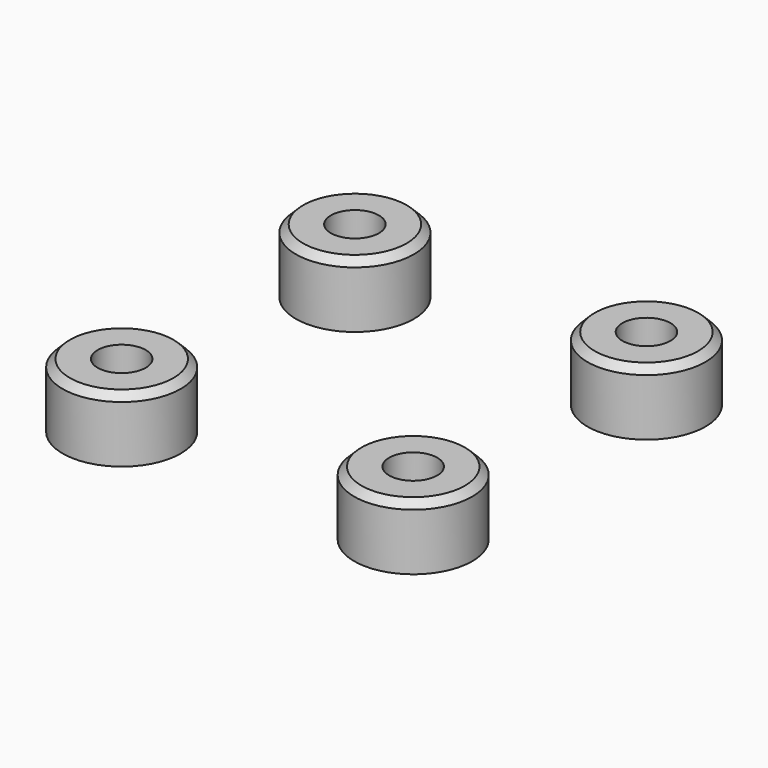
from build123d import *

# Parameters (mm, degrees)
F0_R     = 4.05
F0_R_2   = 1.65
F1_DEPTH = 4.4
F2_SIZE  = 0.5


with BuildPart() as f1:
    # F0 (on Top) → F1 (new body)
    with BuildSketch(Plane.XY):
        with Locations((-10, 10)):
            Circle(F0_R)
        with Locations((-10, 10)):
            Circle(F0_R_2, mode=Mode.SUBTRACT)
        with Locations((10, 10)):
            Circle(F0_R)
        with Locations((10, 10)):
            Circle(F0_R_2, mode=Mode.SUBTRACT)
        with Locations((10, -10)):
            Circle(F0_R)
        with Locations((10, -10)):
            Circle(F0_R_2, mode=Mode.SUBTRACT)
        with Locations((-10, -10)):
            Circle(F0_R)
        with Locations((-10, -10)):
            Circle(F0_R_2, mode=Mode.SUBTRACT)
    extrude(amount=F1_DEPTH)

    # F2
    f2_edges = [f1.edges().sort_by_distance(p)[0] for p in [
        (-14.05, 10, 4.4),
        (5.95, 10, 4.4),
        (5.95, -10, 4.4),
        (-14.05, -10, 4.4),
    ]]
    chamfer(f2_edges, length=F2_SIZE)


solid = f1.part
